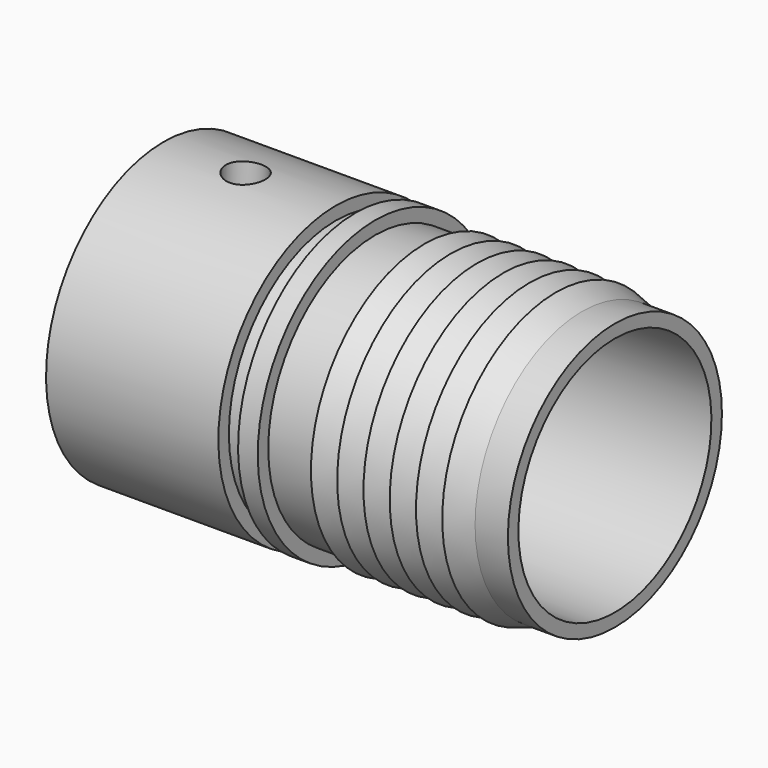
from build123d import *

# Parameters (mm, degrees)
F2_R     = 6
F3_DEPTH = 50


with BuildPart() as f1:
    # F0 (on Front) → F1 (revolve)
    with BuildSketch(Plane.XZ):
        Polygon((0, 44.75), (0, 36.75), (137.5, 36.75), (137.5, 40.75), (127.5, 40.75), (119.5, 43.25), (119.5, 40.75), (111.5, 43.25), (111.5, 40.75), (103.5, 43.25), (103.5, 40.75), (95.5, 43.25), (95.5, 40.75), (87.5, 43.25), (87.5, 40.75), (79.5, 43.25), (79.5, 40.75), (64.5, 40.75), (64.5, 44.75), (58.5, 44.75), (58.5, 40.75), (52.5, 40.75), (52.5, 44.75), align=None)
    revolve(axis=Axis((21.235611, 0, 0), (1, 0, 0)))

    # F2 (on Top) → F3 (cut, symmetric)
    with BuildSketch(Plane.XY):
        with Locations((25, 0)):
            Circle(F2_R)
    extrude(amount=F3_DEPTH, both=True, mode=Mode.SUBTRACT)


solid = f1.part
